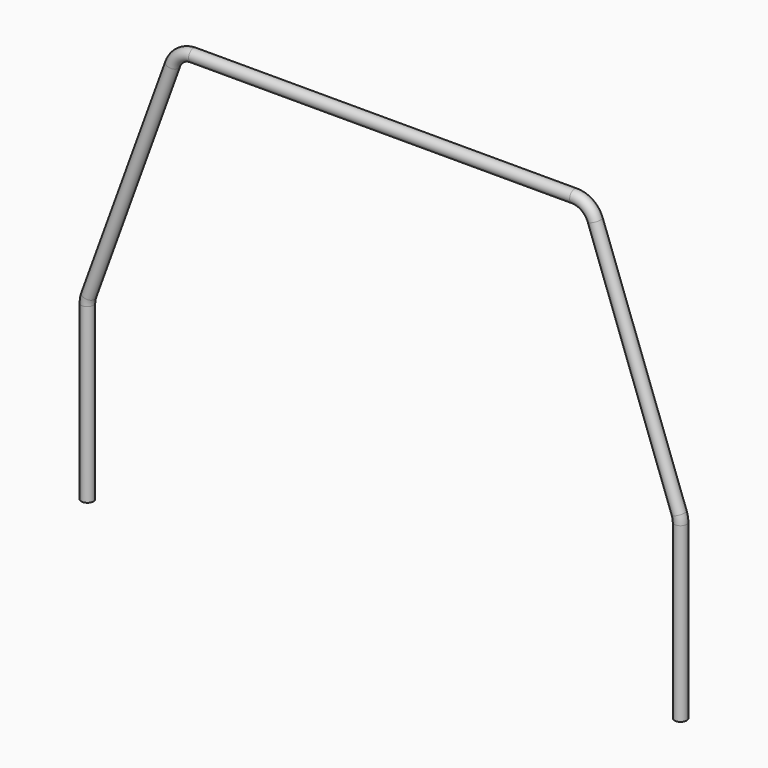
from build123d import *

# Parameters (mm, degrees)
F0_R   = 21.082
F0_R_2 = 17.526


with BuildPart() as f2:
    # F2: sweep along a path in F1
    with BuildLine(Plane.XZ) as f2_path:
        Line((0, 0), (0, 596.16388407))
        ThreePointArc((0, 596.16388407), (1.1576492205, 609.3958752082), (4.5954222961, 622.2258189914))
        Line((4.5954222961, 622.2258189914), (294.4944557647, 1418.7168673681))
        ThreePointArc((294.4944557647, 1418.7168673681), (322.3925090186, 1455.0743182215), (366.0990334686, 1468.8549324466))
        Line((366.0990334686, 1468.8549324466), (1681.7874046454, 1468.8549324466))
        ThreePointArc((1681.7874046454, 1468.8549324466), (1725.4939290954, 1455.0743182215), (1753.3919823493, 1418.7168673681))
        Line((1753.3919823493, 1418.7168673681), (2043.2910158179, 622.2258189914))
        ThreePointArc((2043.2910158179, 622.2258189914), (2046.7287888935, 609.3958752082), (2047.886438114, 596.16388407))
        Line((2047.886438114, 596.16388407), (2047.886438114, 0))
    # F0 (on Top) → F2 (sweep)
    with BuildSketch(Plane.XY):
        Circle(F0_R)
        Circle(F0_R_2, mode=Mode.SUBTRACT)
    sweep(path=f2_path.line)


solid = f2.part
